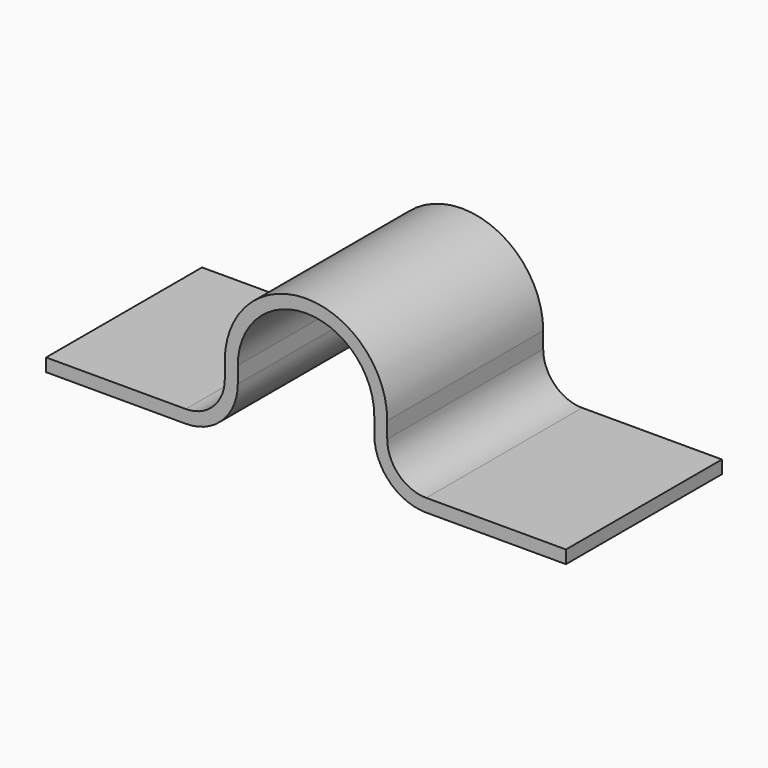
from build123d import *

# Parameters (mm, degrees)
F1_DEPTH = 30


with BuildPart() as f1:
    # F0 (on Front) → F1 (new body)
    with BuildSketch(Plane.XZ):
        with BuildLine():
            ThreePointArc((-10.5, 0), (0, 10.5), (10.5, 0))
            Line((10.5, 0), (10.5, -2.5))
            ThreePointArc((10.5, -2.5), (12.843146, -8.156854), (18.5, -10.5))
            Line((18.5, -10.5), (40, -10.5))
            Line((40, -10.5), (40, -8.5))
            Line((40, -8.5), (18.5, -8.5))
            ThreePointArc((18.5, -8.5), (14.257359, -6.742641), (12.5, -2.5))
            Line((12.5, -2.5), (12.5, 0))
            ThreePointArc((12.5, 0), (0, 12.5), (-12.5, 0))
            Line((-12.5, 0), (-12.5, -2.5))
            ThreePointArc((-12.5, -2.5), (-14.257359, -6.742641), (-18.5, -8.5))
            Line((-18.5, -8.5), (-40, -8.5))
            Line((-40, -8.5), (-40, -10.5))
            Line((-40, -10.5), (-18.5, -10.5))
            ThreePointArc((-18.5, -10.5), (-12.843146, -8.156854), (-10.5, -2.5))
            Line((-10.5, -2.5), (-10.5, 0))
        make_face()
    extrude(amount=F1_DEPTH)


solid = f1.part
